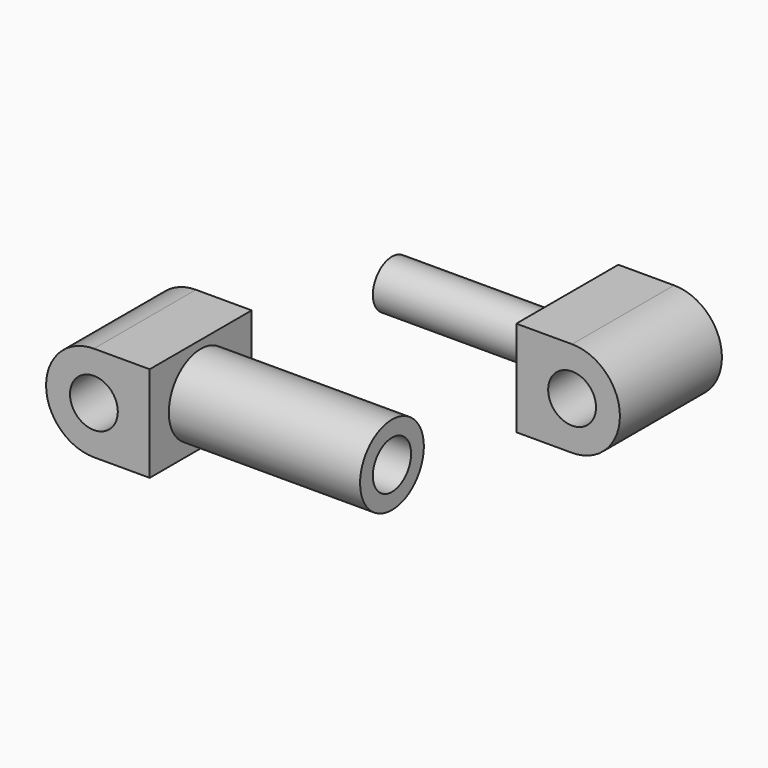
from build123d import *

# Parameters (mm, degrees)
F0_R     = 1.5
F1_DEPTH = 4
F0_W     = 12
F0_H     = 1
F0_W_2   = 11
F0_H_2   = 1.5


with BuildPart() as f1:
    # F0 (on Front) → F1 (new body, symmetric)
    with BuildSketch(Plane.XZ):
        with BuildLine():
            Line((26.5, 7), (30, 7))
            ThreePointArc((30, 7), (33, 10), (30, 13))
            Line((30, 13), (26.5, 13))
            Line((26.5, 13), (26.5, 11.5))
            Line((26.5, 11.5), (26.5, 10))
            Line((26.5, 10), (26.5, 7))
        make_face()
        with Locations((30, 10)):
            Circle(F0_R, mode=Mode.SUBTRACT)
        with BuildLine():
            Line((3.5, 3), (0, 3))
            ThreePointArc((0, 3), (-3, 0), (0, -3))
            Line((0, -3), (3.5, -3))
            Line((3.5, -3), (3.5, 1.5))
            Line((3.5, 1.5), (3.5, 2.5))
            Line((3.5, 2.5), (3.5, 3))
        make_face()
        Circle(F0_R, mode=Mode.SUBTRACT)
    extrude(amount=F1_DEPTH, both=True)

    # F0 (on Front) → F2 (revolve)
    with BuildSketch(Plane.XZ):
        with Locations((9.5, 2)):
            Rectangle(F0_W, F0_H)
    revolve(axis=Axis((20.655512, 0, 0), (1, 0, 0)))

    # F0 (on Front) → F3 (revolve)
    with BuildSketch(Plane.XZ):
        with Locations((21, 10.75)):
            Rectangle(F0_W_2, F0_H_2)
    revolve(axis=Axis((21, 0, 10), (-1, 0, 0)))


solid = f1.part
